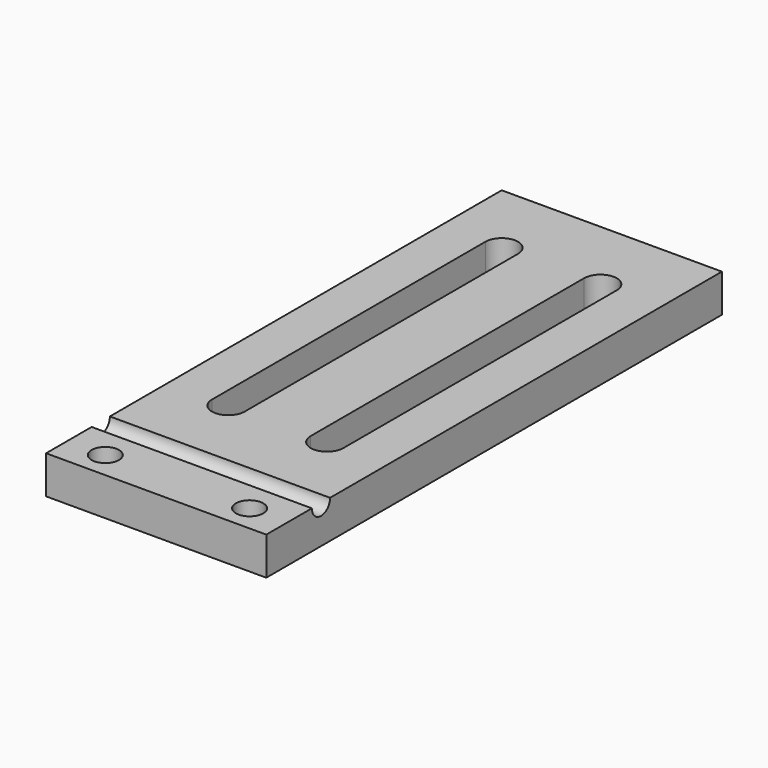
from build123d import *

# Parameters (mm, degrees)
F0_W     = 29
F0_H     = 75
F0_R     = 1.8
F1_DEPTH = 5
F3_DEPTH = 29
F4_DEPTH = 2


with BuildPart() as f1:
    # F0 (on Top) → F1 (new body)
    with BuildSketch(Plane.XY):
        with Locations((14.5, -37.5)):
            Rectangle(F0_W, F0_H)
        Polygon((1.709103, -71.5), (3.354552, -68.65), (6.645448, -68.65), (8.290897, -71.5), (6.645448, -74.35), (3.354552, -74.35), align=None, mode=Mode.SUBTRACT)
        Polygon((20.709103, -71.5), (22.354552, -68.65), (25.645448, -68.65), (27.290897, -71.5), (25.645448, -74.35), (22.354552, -74.35), align=None, mode=Mode.SUBTRACT)
        with BuildLine():
            Line((5.85, -55), (5.85, -10))
            ThreePointArc((5.85, -10), (8, -7.85), (10.15, -10))
            Line((10.15, -10), (10.15, -55))
            ThreePointArc((10.15, -55), (8, -57.15), (5.85, -55))
        make_face(mode=Mode.SUBTRACT)
        with BuildLine():
            Line((18.85, -55), (18.85, -10))
            ThreePointArc((18.85, -10), (21, -7.85), (23.15, -10))
            Line((23.15, -10), (23.15, -55))
            ThreePointArc((23.15, -55), (21, -57.15), (18.85, -55))
        make_face(mode=Mode.SUBTRACT)
        Polygon((25.645448, -68.65), (22.354552, -68.65), (20.709103, -71.5), (22.354552, -74.35), (25.645448, -74.35), (27.290897, -71.5), align=None)
        with Locations((24, -71.5)):
            Circle(F0_R, mode=Mode.SUBTRACT)
        Polygon((6.645448, -68.65), (3.354552, -68.65), (1.709103, -71.5), (3.354552, -74.35), (6.645448, -74.35), (8.290897, -71.5), align=None)
        with Locations((5, -71.5)):
            Circle(F0_R, mode=Mode.SUBTRACT)
    extrude(amount=F1_DEPTH)

    # F2 (on face) → F3 (cut, through all)
    with BuildSketch(Plane.YZ.offset(29)):
        with BuildLine():
            Line((-64.5, 5), (-67.5, 5))
            ThreePointArc((-67.5, 5), (-66, 3.5), (-64.5, 5))
        make_face()
    extrude(amount=-F3_DEPTH, mode=Mode.SUBTRACT)

    # F0 (on Top) → F4 (cut)
    with BuildSketch(Plane.XY):
        with Locations((5, -71.5)):
            Circle(F0_R)
        with Locations((24, -71.5)):
            Circle(F0_R)
        Polygon((6.645448, -68.65), (3.354552, -68.65), (1.709103, -71.5), (3.354552, -74.35), (6.645448, -74.35), (8.290897, -71.5), align=None)
        with Locations((5, -71.5)):
            Circle(F0_R, mode=Mode.SUBTRACT)
        Polygon((25.645448, -68.65), (22.354552, -68.65), (20.709103, -71.5), (22.354552, -74.35), (25.645448, -74.35), (27.290897, -71.5), align=None)
        with Locations((24, -71.5)):
            Circle(F0_R, mode=Mode.SUBTRACT)
    extrude(amount=F4_DEPTH, mode=Mode.SUBTRACT)


solid = f1.part
